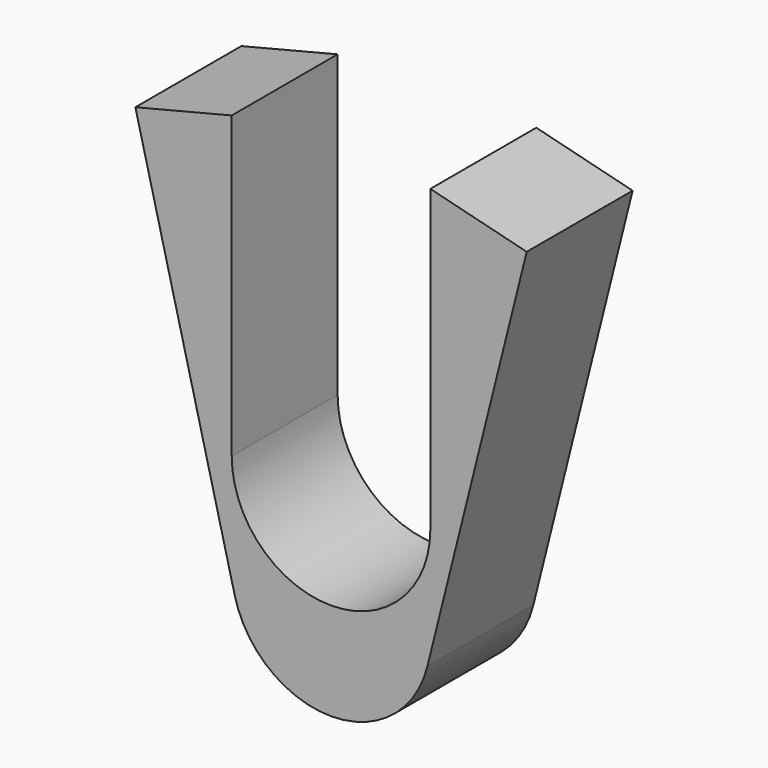
from build123d import *

# Parameters (mm, degrees)
F1_DEPTH = 12.7
F3_DEPTH = 12.7


with BuildPart() as f1:
    # F0 (on Front) → F1 (new body, symmetric)
    with BuildSketch(Plane.XZ):
        Polygon((37.531215, -4.620304), (19.05, 0), (0, -76.2), (18.481215, -80.820304), align=None)
        Polygon((-18.481215, -80.820304), (0, -76.2), (-19.05, 0), (-37.531215, -4.620304), align=None)
        with BuildLine():
            Line((18.481215, -80.820304), (0, -76.2))
            Line((0, -76.2), (-18.481215, -80.820304))
            ThreePointArc((-18.481215, -80.820304), (0, -95.25), (18.481215, -80.820304))
        make_face()
    extrude(amount=F1_DEPTH, both=True)

    # F2 (on Front) → F3 (cut, symmetric)
    with BuildSketch(Plane.XZ):
        with BuildLine():
            Line((-19.05, 0), (-19.05, -57.5056))
            ThreePointArc((-19.05, -57.5056), (0, -76.5556), (19.05, -57.5056))
            Line((19.05, -57.5056), (19.05, 0))
            Line((19.05, 0), (-19.05, 0))
        make_face()
    extrude(amount=F3_DEPTH, both=True, mode=Mode.SUBTRACT)


solid = f1.part
